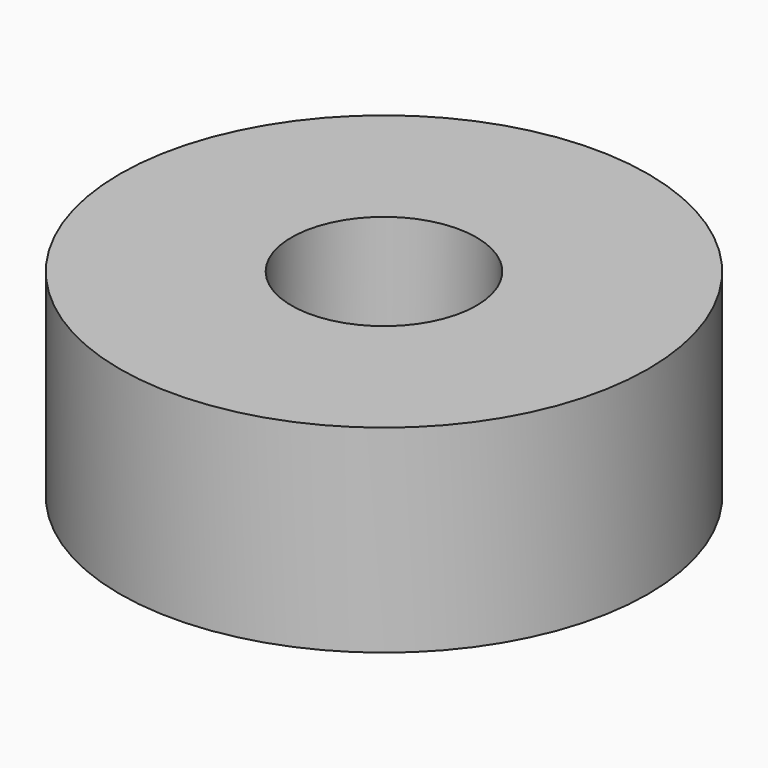
from build123d import *

# Parameters (mm, degrees)
CYLINDER037_R     = 2.1
CYLINDER037_DEPTH = 33.5
CYLINDER036_R     = 6
CYLINDER036_DEPTH = 4.5


with BuildPart() as cylinder037:
    # Cylinder037 → Cylinder037 (new body)
    with BuildSketch(Plane.XY.offset(-4.6)):
        Circle(CYLINDER037_R)
    extrude(amount=CYLINDER037_DEPTH)


with BuildPart() as cut028:
    # Cylinder036 → Cylinder036 (new body)
    with BuildSketch(Plane.XY.offset(24)):
        Circle(CYLINDER036_R)
    extrude(amount=CYLINDER036_DEPTH)

    # Cut028: cut Cylinder037
    add(cylinder037.part, mode=Mode.SUBTRACT)


solid = cut028.part
